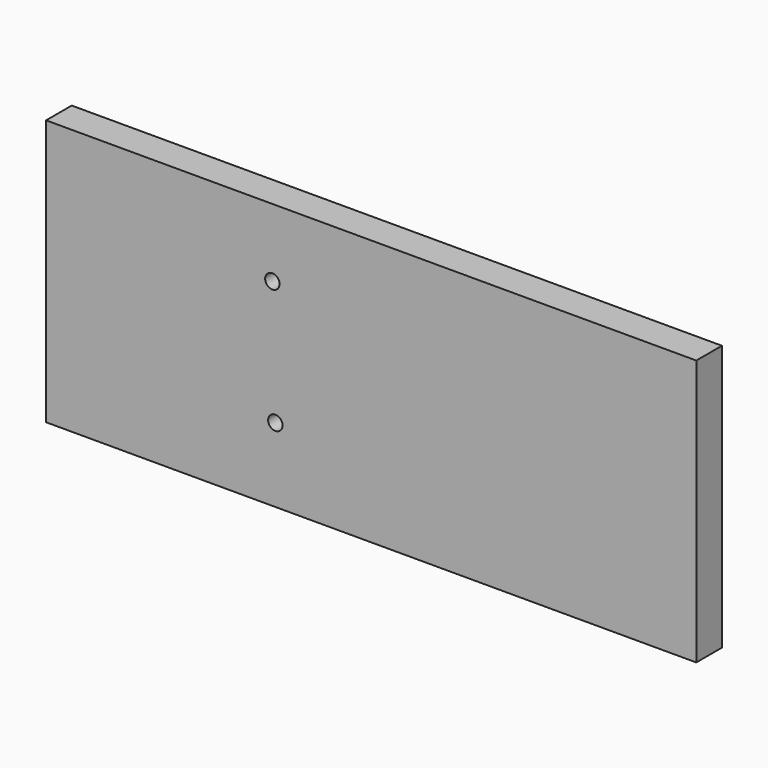
from build123d import *

# Parameters (mm, degrees)
F0_W     = 128.877796
F0_H     = 52.687123
F0_R     = 1.425904
F0_R_2   = 16.772603
F0_R_3   = 16.75544
F0_R_4   = 1.425903
F1_DEPTH = 6.35


with BuildPart() as f1:
    # F0 (on Front) → F1 (new body)
    with BuildSketch(Plane.XZ):
        with Locations((0.293795, 1.566904)):
            Rectangle(F0_W, F0_H)
        with Locations((-18.704908, -10.08694)):
            Circle(F0_R, mode=Mode.SUBTRACT)
        with Locations((7.540722, 0)):
            Circle(F0_R_2, mode=Mode.SUBTRACT)
        with Locations((45.538131, 0)):
            Circle(F0_R_3, mode=Mode.SUBTRACT)
        with Locations((-19.292498, 14.395924)):
            Circle(F0_R_4, mode=Mode.SUBTRACT)
        with Locations((45.538131, 0)):
            Circle(F0_R_3)
        with Locations((7.540722, 0)):
            Circle(F0_R_2)
    extrude(amount=F1_DEPTH)


solid = f1.part
